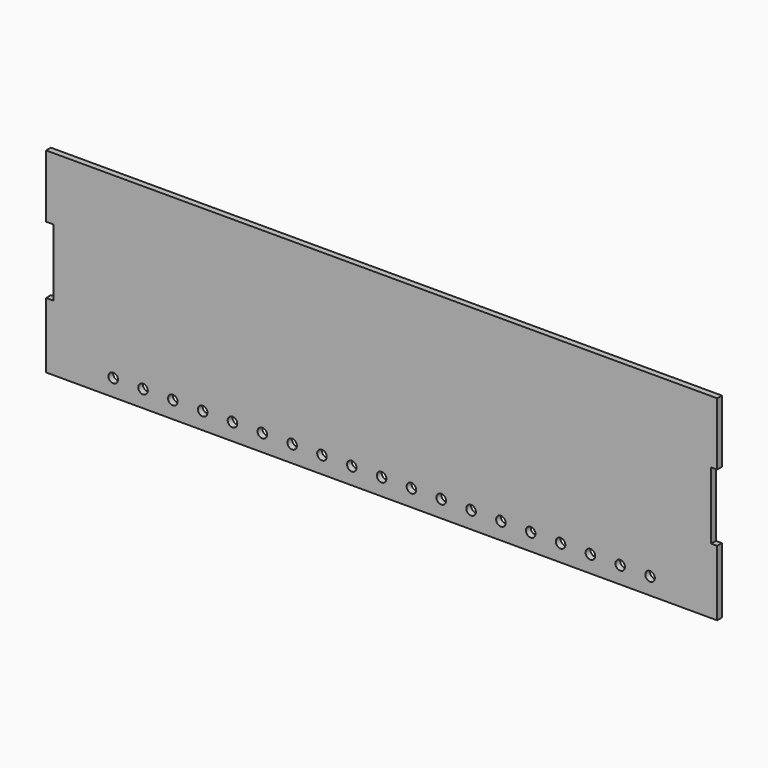
from build123d import *

# Parameters (mm, degrees)
F0_R     = 3.203197
F1_DEPTH = 4


with BuildPart() as f1:
    # F0 (on Front) → F1 (new body)
    with BuildSketch(Plane.XZ):
        Polygon((0, 44), (0, 0), (450, 0), (450, 44), (446, 44), (446, 89), (450, 89), (450, 131.09091), (0, 131.09091), (0, 89), (4.851141, 89), (4.851141, 44), align=None)
        with Locations((45, 11.379755)):
            Circle(F0_R, mode=Mode.SUBTRACT)
        with Locations((65, 11.379755)):
            Circle(F0_R, mode=Mode.SUBTRACT)
        with Locations((85, 11.379755)):
            Circle(F0_R, mode=Mode.SUBTRACT)
        with Locations((105, 11.379755)):
            Circle(F0_R, mode=Mode.SUBTRACT)
        with Locations((125, 11.379755)):
            Circle(F0_R, mode=Mode.SUBTRACT)
        with Locations((145, 11.379755)):
            Circle(F0_R, mode=Mode.SUBTRACT)
        with Locations((165, 11.379755)):
            Circle(F0_R, mode=Mode.SUBTRACT)
        with Locations((185, 11.379755)):
            Circle(F0_R, mode=Mode.SUBTRACT)
        with Locations((205, 11.379755)):
            Circle(F0_R, mode=Mode.SUBTRACT)
        with Locations((225, 11.379755)):
            Circle(F0_R, mode=Mode.SUBTRACT)
        with Locations((245, 11.379755)):
            Circle(F0_R, mode=Mode.SUBTRACT)
        with Locations((265, 11.379755)):
            Circle(F0_R, mode=Mode.SUBTRACT)
        with Locations((285, 11.379755)):
            Circle(F0_R, mode=Mode.SUBTRACT)
        with Locations((305, 11.379755)):
            Circle(F0_R, mode=Mode.SUBTRACT)
        with Locations((325, 11.379755)):
            Circle(F0_R, mode=Mode.SUBTRACT)
        with Locations((345, 11.379755)):
            Circle(F0_R, mode=Mode.SUBTRACT)
        with Locations((365, 11.379755)):
            Circle(F0_R, mode=Mode.SUBTRACT)
        with Locations((385, 11.379755)):
            Circle(F0_R, mode=Mode.SUBTRACT)
        with Locations((405, 11.379755)):
            Circle(F0_R, mode=Mode.SUBTRACT)
    extrude(amount=F1_DEPTH)


solid = f1.part
